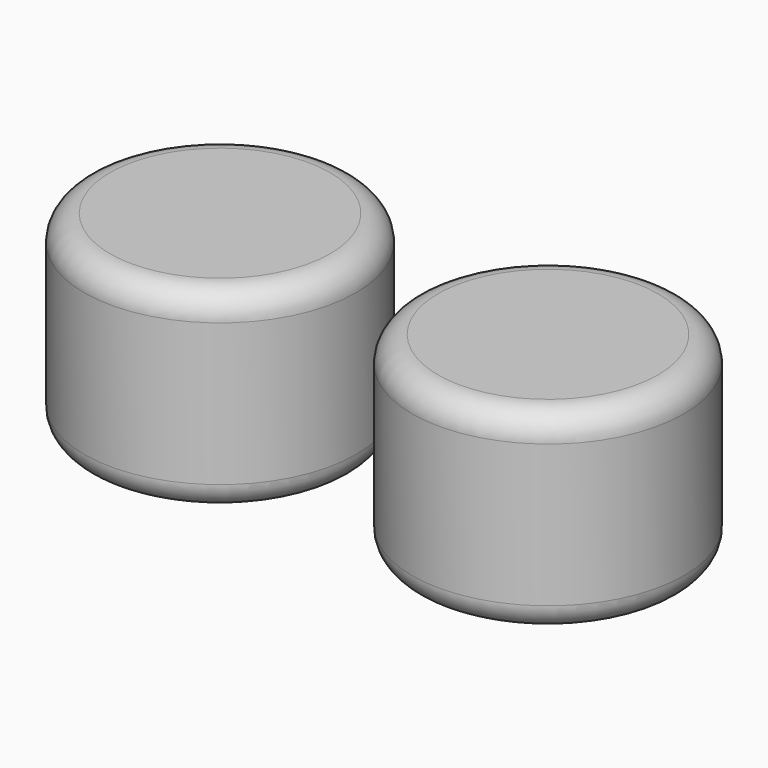
from build123d import *

# Parameters (mm, degrees)
F0_R     = 10.5
F1_DEPTH = 15
F2_R     = 2


with BuildPart() as f1:
    # F0 (on Top) → F1 (new body)
    with BuildSketch(Plane.XY):
        with Locations((-51.671926, 23.47412)):
            Circle(F0_R)
        with Locations((-26.332807, 23.47412)):
            Circle(F0_R)
        with Locations((-51.671926, 23.47412)):
            Circle(F0_R)
    extrude(amount=F1_DEPTH)

    # F2
    f2_edges = [f1.edges().sort_by_distance(p)[0] for p in [
        (-36.832807, 23.47412, 15),
        (-62.171926, 23.47412, 15),
        (-62.171926, 23.47412, 0),
        (-36.832807, 23.47412, 0),
    ]]
    fillet(f2_edges, radius=F2_R)


solid = f1.part
